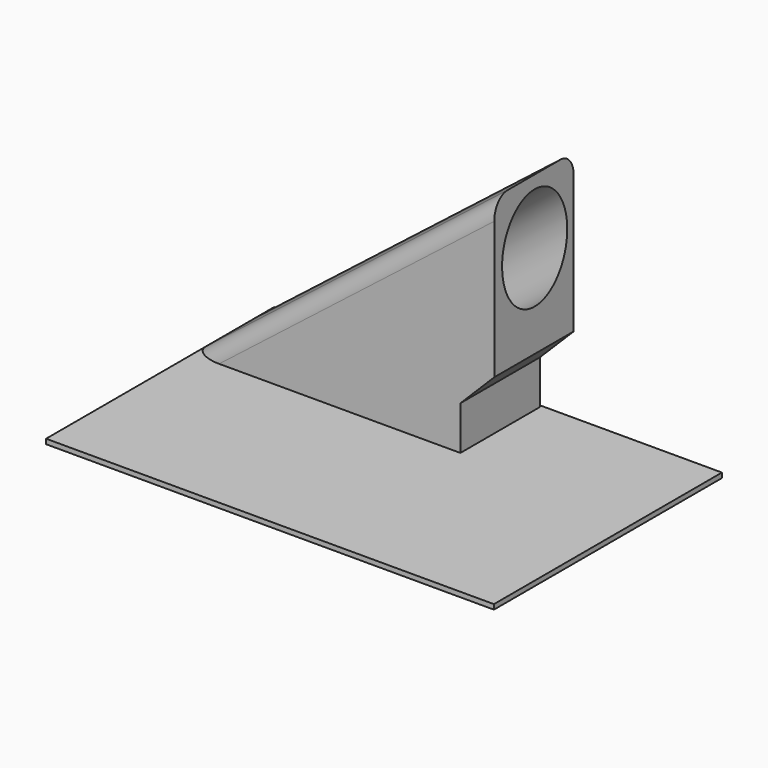
from build123d import *

# Parameters (mm, degrees)
F0_W     = 55
F0_H     = 35
F1_DEPTH = 0.6
F3_DEPTH = 12.2
F5_R     = 5
F6_DEPTH = 80
F9_R     = 2


with BuildPart() as f1:
    # F0 (on Top) → F1 (new body)
    with BuildSketch(Plane.XY):
        with Locations((0, -5.0058960915)):
            Rectangle(F0_W, F0_H)
    extrude(amount=F1_DEPTH)


with BuildPart() as f3:
    # F2 (on Front) → F3 (new body)
    with BuildSketch(Plane.XZ):
        Polygon((9.5365054195, 29.5360893403), (-27.5, 0.6), (5.3746255518, 0.6), (5.3746255518, 5.9764396758), (9.5365054195, 10.1383195435), align=None)
    extrude(amount=-F3_DEPTH)


with BuildPart() as f6:
    # F5 (on face) → F6 (new body, symmetric)
    with BuildSketch(Plane(origin=(10.780920551, 0, 8.422978267), x_dir=(0, -1, 0), z_dir=(-0.7880107536, 0, -0.6156614753))):
        with Locations((0, 11.1534970236)):
            Circle(F5_R)
    extrude(amount=F6_DEPTH, both=True)


with BuildPart() as f6_1:
    # F7: moved
    add(f6.part.moved(Location((0, 6.2, 0))))


with BuildPart() as f3_1:
    add(f3.part)

    # F8: cut F6
    add(f6_1.part, mode=Mode.SUBTRACT)

    # F9
    f9_edges = [f3_1.edges().sort_by_distance(p)[0] for p in [
        (-8.981747, 12.2, 15.068045),
        (-8.981747, 0, 15.068045),
    ]]
    fillet(f9_edges, radius=F9_R)


solid = Compound([f1.part, f3_1.part])
